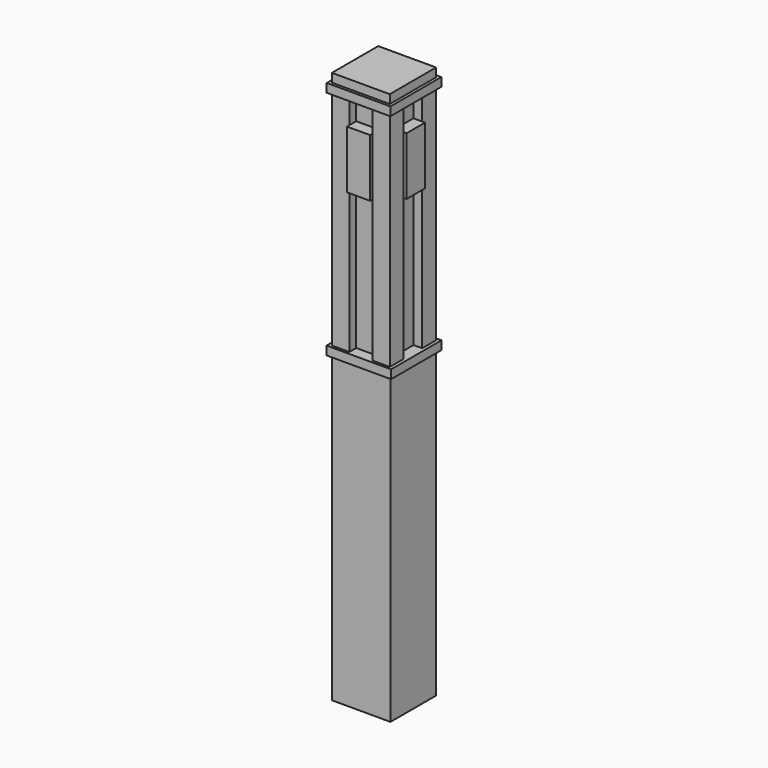
from build123d import *

# Parameters (mm, degrees)
F0_W           = 128.778
F0_H           = 125.476
F1_DEPTH       = 673.1
F2_W           = 88.9
F2_H           = 88.9
F3_DEPTH       = 508
F4_W           = 141.477994
F4_H           = 138.175994
F4_W_2         = 88.9
F4_H_2         = 88.9
F5_DEPTH       = 12.7
F6_W           = 141.477994
F6_H           = 138.175994
F6_W_2         = 128.778
F6_H_2         = 125.476
F7_DEPTH       = 6.35
F8_W           = 38.1
F8_H           = 38.1
F9_DEPTH       = 495.3
F10_W          = 139.7
F10_H          = 139.7
F10_W_2        = 127
F10_H_2        = 127
F11_DEPTH      = 6.35
F12_W          = 139.7
F12_H          = 139.7
F13_DEPTH      = 12.7
F14_W          = 50.8
F14_H          = 127
F15_DEPTH      = 25.4
F15_DEPTH_BACK = 114.3
F16_W          = 50.8
F16_H          = 127
F17_DEPTH      = 25.4
F17_DEPTH_BACK = 114.3
F18_W          = 127
F18_H          = 127
F19_DEPTH      = 19.05


with BuildPart() as f1:
    # F0 (on Top) → F1 (new body)
    with BuildSketch(Plane.XY):
        Rectangle(F0_W, F0_H)
    extrude(amount=F1_DEPTH)

    # F2 (on face) → F3 (join)
    with BuildSketch(Plane.XY.offset(673.1)):
        Rectangle(F2_W, F2_H)
    extrude(amount=F3_DEPTH)

    # F4 (on face) → F5 (join)
    with BuildSketch(Plane.XY.offset(673.1)):
        Rectangle(F4_W, F4_H)
        Rectangle(F4_W_2, F4_H_2, mode=Mode.SUBTRACT)
    extrude(amount=F5_DEPTH)

    # F6 (on face) → F7 (join)
    with BuildSketch(Plane(origin=(0, 0, 673.1), x_dir=(1, 0, 0), z_dir=(0, 0, -1))):
        Rectangle(F6_W, F6_H)
        Rectangle(F6_W_2, F6_H_2, mode=Mode.SUBTRACT)
    extrude(amount=F7_DEPTH)

    # F8 (on face) → F9 (join)
    with BuildSketch(Plane.XY.offset(685.8)):
        with Locations((44.45, 44.45)):
            Rectangle(F8_W, F8_H)
        with Locations((44.45, -44.45)):
            Rectangle(F8_W, F8_H)
        with Locations((-44.45, -44.45)):
            Rectangle(F8_W, F8_H)
        with Locations((-44.45, 44.45)):
            Rectangle(F8_W, F8_H)
    extrude(amount=F9_DEPTH)

    # F10 (on face) → F11 (join)
    with BuildSketch(Plane.XY.offset(1181.1)):
        Rectangle(F10_W, F10_H)
        Rectangle(F10_W_2, F10_H_2, mode=Mode.SUBTRACT)
    extrude(amount=-F11_DEPTH)

    # F12 (on face) → F13 (join)
    with BuildSketch(Plane.XY.offset(1181.1)):
        Rectangle(F12_W, F12_H)
    extrude(amount=F13_DEPTH)

    # F14 (on face) → F15 (join, two sides)
    with BuildSketch(Plane.XZ.offset(44.45)) as f15_sk:
        with Locations((0, 1060.45)):
            Rectangle(F14_W, F14_H)
    extrude(amount=F15_DEPTH)
    extrude(f15_sk.sketch, amount=-F15_DEPTH_BACK)

    # F16 (on face) → F17 (join, two sides)
    with BuildSketch(Plane.YZ.offset(44.45)) as f17_sk:
        with Locations((0, 1060.45)):
            Rectangle(F16_W, F16_H)
    extrude(amount=F17_DEPTH)
    extrude(f17_sk.sketch, amount=-F17_DEPTH_BACK)

    # F18 (on face) → F19 (join)
    with BuildSketch(Plane.XY.offset(1193.8)):
        Rectangle(F18_W, F18_H)
    extrude(amount=F19_DEPTH)


solid = f1.part
